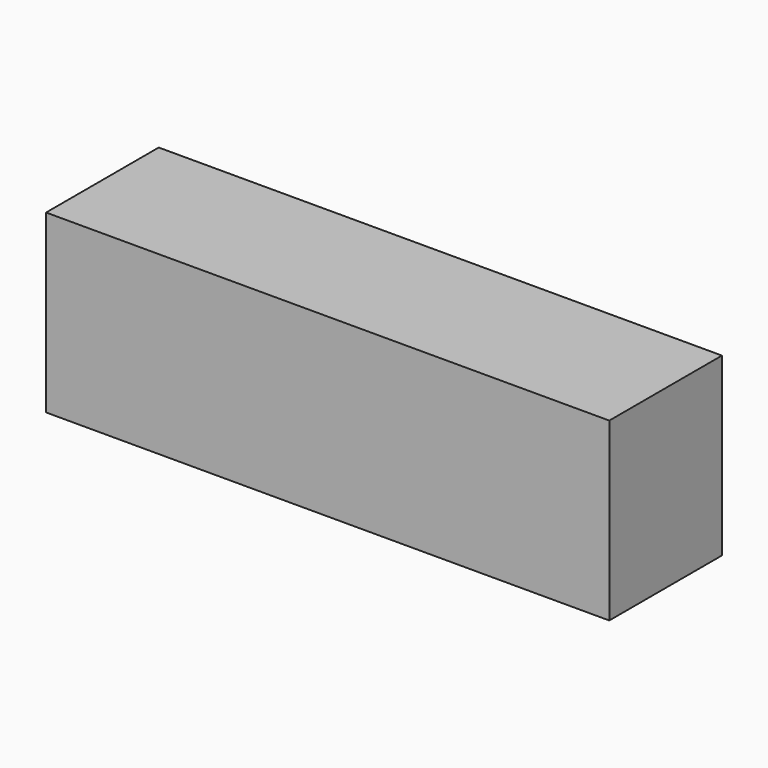
from build123d import *

# Parameters (mm, degrees)
SKETCH_W      = 160
SKETCH_H      = 40
EXTRUDE_DEPTH = 50


with BuildPart() as part:
    # Sketch → Extrude (new body)
    with BuildSketch(Plane.XY):
        Rectangle(SKETCH_W, SKETCH_H)
    extrude(amount=EXTRUDE_DEPTH)


solid = part.part
